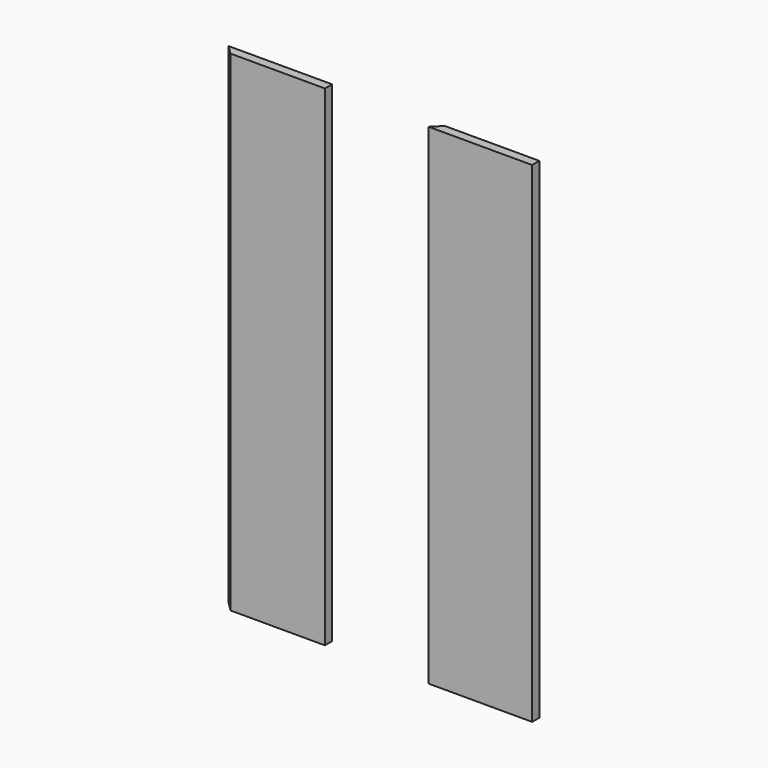
from build123d import *

# Parameters (mm, degrees)
F1_DEPTH = 2
F3_DEPTH = 250
F5_DEPTH = 250


with BuildPart() as f1:
    # F0 (on Front) → F1 (new body)
    with BuildSketch(Plane.XZ):
        Polygon((-77.932378, -44.318121), (-75.932378, -44.318121), (-75.932378, 64.631879), (-98.932378, 64.631879), (-98.932378, -44.318121), align=None)
        Polygon((-52.882172, -44.318121), (-31.882172, -44.318121), (-29.882172, -44.318121), (-29.882172, 64.631879), (-52.882172, 64.631879), align=None)
    extrude(amount=F1_DEPTH)

    # F2 (on face) → F3 (cut)
    with BuildSketch(Plane.XY.offset(64.631879)):
        Polygon((-98.932378, 0), (-98.932378, -2), (-96.932378, -2), align=None)
    extrude(amount=-F3_DEPTH, mode=Mode.SUBTRACT)

    # F4 (on face) → F5 (cut)
    with BuildSketch(Plane.XY.offset(64.631879)):
        Polygon((-52.882172, -2), (-50.882172, 0), (-52.882172, 0), align=None)
    extrude(amount=-F5_DEPTH, mode=Mode.SUBTRACT)


solid = f1.part
